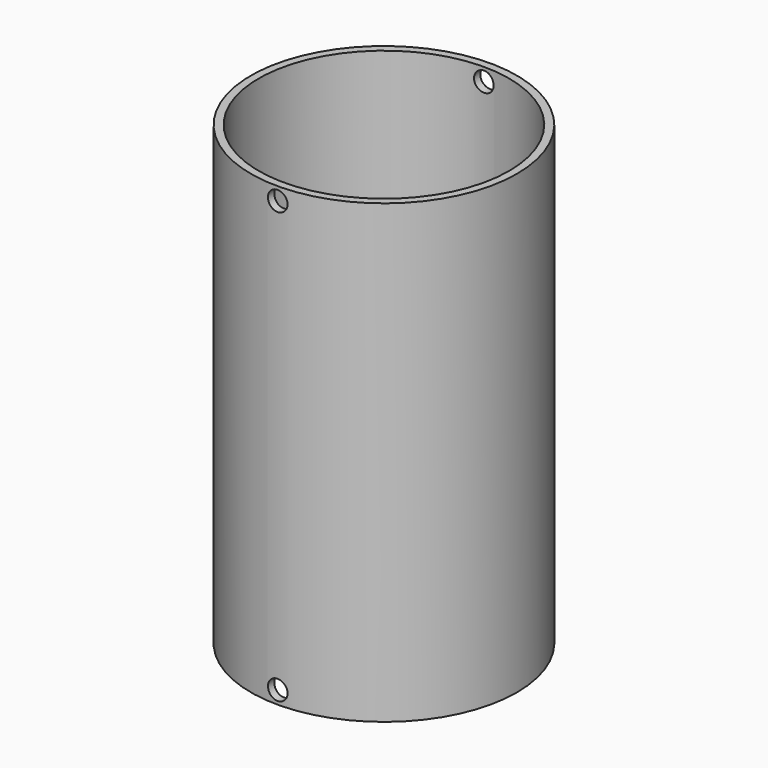
from build123d import *

# Parameters (mm, degrees)
SKETCH_R          = 20.4
SKETCH_R_2        = 19.2
PAD_DEPTH         = 70
SKETCH001_R       = 1.5
POCKET_DEPTH      = 20.401
POCKET_DEPTH_BACK = -20.401


with BuildPart() as part:
    # Sketch → Pad (new body)
    with BuildSketch(Plane.XY):
        Circle(SKETCH_R)
        Circle(SKETCH_R_2, mode=Mode.SUBTRACT)
    extrude(amount=PAD_DEPTH)

    # Sketch001 → Pocket (cut, two sides)
    with BuildSketch(Plane.XZ) as pocket_sk:
        with Locations((0, 2)):
            Circle(SKETCH001_R)
        with Locations((0, 68)):
            Circle(SKETCH001_R)
    extrude(amount=-POCKET_DEPTH, mode=Mode.SUBTRACT)
    extrude(pocket_sk.sketch, amount=-POCKET_DEPTH_BACK, mode=Mode.SUBTRACT)


solid = part.part
